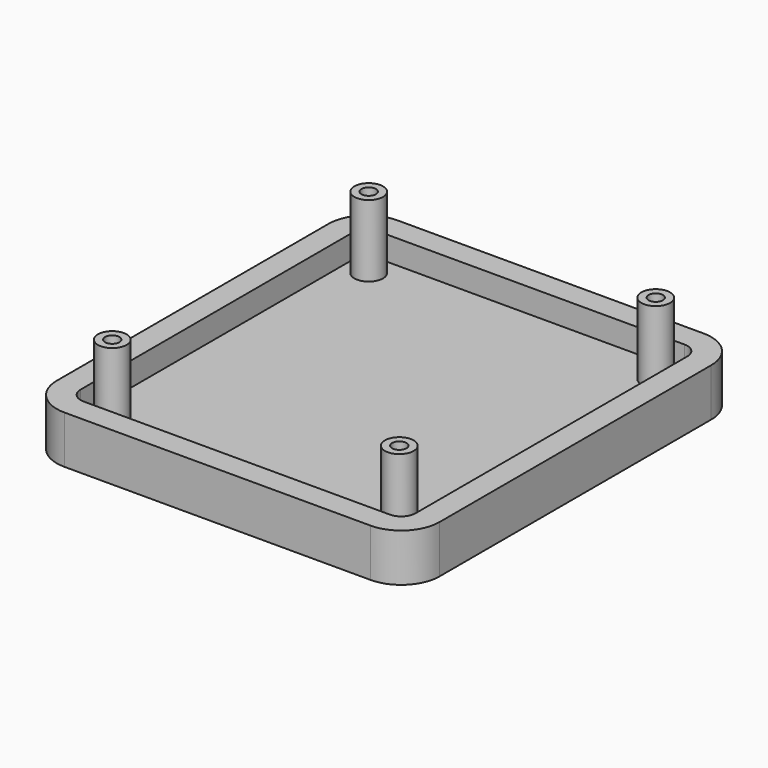
from build123d import *

# Parameters (mm, degrees)
F1_DEPTH = 10
F0_R     = 3
F0_R_2   = 1.5
F2_DEPTH = 5
F3_DEPTH = 20


with BuildPart() as f1:
    # F0 (on Top) → F1 (new body)
    with BuildSketch(Plane.XY):
        with BuildLine():
            ThreePointArc((40, 35.5), (37.656854, 41.156854), (32, 43.5))
            Line((32, 43.5), (-32, 43.5))
            ThreePointArc((-32, 43.5), (-37.656854, 41.156854), (-40, 35.5))
            Line((-40, 35.5), (-40, -35.5))
            ThreePointArc((-40, -35.5), (-37.656854, -41.156854), (-32, -43.5))
            Line((-32, -43.5), (32, -43.5))
            ThreePointArc((32, -43.5), (37.656854, -41.156854), (40, -35.5))
            Line((40, -35.5), (40, 35.5))
        make_face()
        with BuildLine():
            Line((-32, 38.5), (32, 38.5))
            ThreePointArc((32, 38.5), (34.12132, 37.62132), (35, 35.5))
            Line((35, 35.5), (35, -35.5))
            ThreePointArc((35, -35.5), (34.12132, -37.62132), (32, -38.5))
            Line((32, -38.5), (-32, -38.5))
            ThreePointArc((-32, -38.5), (-34.12132, -37.62132), (-35, -35.5))
            Line((-35, -35.5), (-35, 35.5))
            ThreePointArc((-35, 35.5), (-34.12132, 37.62132), (-32, 38.5))
        make_face(mode=Mode.SUBTRACT)
    extrude(amount=F1_DEPTH)

    # F0 (on Top) → F2 (join)
    with BuildSketch(Plane.XY):
        with BuildLine():
            ThreePointArc((35, 35.5), (34.12132, 37.62132), (32, 38.5))
            Line((32, 38.5), (-32, 38.5))
            ThreePointArc((-32, 38.5), (-34.12132, 37.62132), (-35, 35.5))
            Line((-35, 35.5), (-35, -35.5))
            ThreePointArc((-35, -35.5), (-34.12132, -37.62132), (-32, -38.5))
            Line((-32, -38.5), (32, -38.5))
            ThreePointArc((32, -38.5), (34.12132, -37.62132), (35, -35.5))
            Line((35, -35.5), (35, 35.5))
        make_face()
        with Locations((-30, -33.5)):
            Circle(F0_R, mode=Mode.SUBTRACT)
        with Locations((30, -33.5)):
            Circle(F0_R, mode=Mode.SUBTRACT)
        with Locations((-30, 33.5)):
            Circle(F0_R, mode=Mode.SUBTRACT)
        with Locations((30, 33.5)):
            Circle(F0_R, mode=Mode.SUBTRACT)
        with Locations((-30, -33.5)):
            Circle(F0_R_2)
        with Locations((30, -33.5)):
            Circle(F0_R_2)
        with Locations((30, 33.5)):
            Circle(F0_R_2)
        with Locations((-30, 33.5)):
            Circle(F0_R_2)
    extrude(amount=F2_DEPTH)

    # F0 (on Top) → F3 (join)
    with BuildSketch(Plane.XY):
        with Locations((-30, 33.5)):
            Circle(F0_R)
        with Locations((-30, 33.5)):
            Circle(F0_R_2, mode=Mode.SUBTRACT)
        with Locations((30, 33.5)):
            Circle(F0_R)
        with Locations((30, 33.5)):
            Circle(F0_R_2, mode=Mode.SUBTRACT)
        with Locations((30, -33.5)):
            Circle(F0_R)
        with Locations((30, -33.5)):
            Circle(F0_R_2, mode=Mode.SUBTRACT)
        with Locations((-30, -33.5)):
            Circle(F0_R)
        with Locations((-30, -33.5)):
            Circle(F0_R_2, mode=Mode.SUBTRACT)
    extrude(amount=F3_DEPTH)


solid = f1.part
